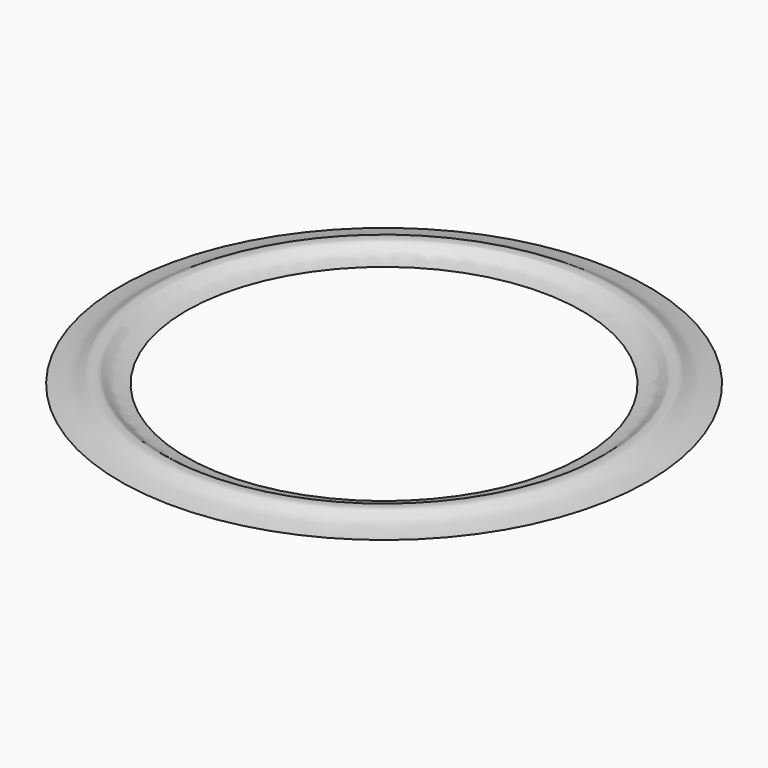
from build123d import *


with BuildPart() as f1:
    # F0 (on Front) → F1 (revolve)
    with BuildSketch(Plane.XZ):
        with BuildLine():
            add(Edge.make_bspline(
                [(304.8, 0), (299.2306655774, 0.6954468525), (288.3638027022, 1.7932152678), (276.3968806262, 6.6304696364), (268.5581108508, 12.9238446457), (262.1854868837, 12.6676415266), (255.0638602949, 12.6001476412), (248.0282253744, 4.2785512303), (240.8860498434, 2.4615602576), (233.0595940218, 0.7331401574), (228.6, 0)],
                knots=[0, 0, 0, 0, 0.1618464724, 0.3045926357, 0.4266383591, 0.5234727428, 0.6261623493, 0.7519758369, 0.859187613, 1, 1, 1, 1], degree=3))
            Line((228.6, 0), (255.2863657475, 0))
            Line((255.2863657475, 0), (255.2863657475, 10.16))
            Line((255.2863657475, 10.16), (270.5263657475, 10.16))
            Line((270.5263657475, 10.16), (270.5263657475, 0))
            Line((270.5263657475, 0), (304.8, 0))
        make_face()
    revolve(axis=Axis((0, 0, 4.8033446074), (0, 0, -1)))


solid = f1.part
